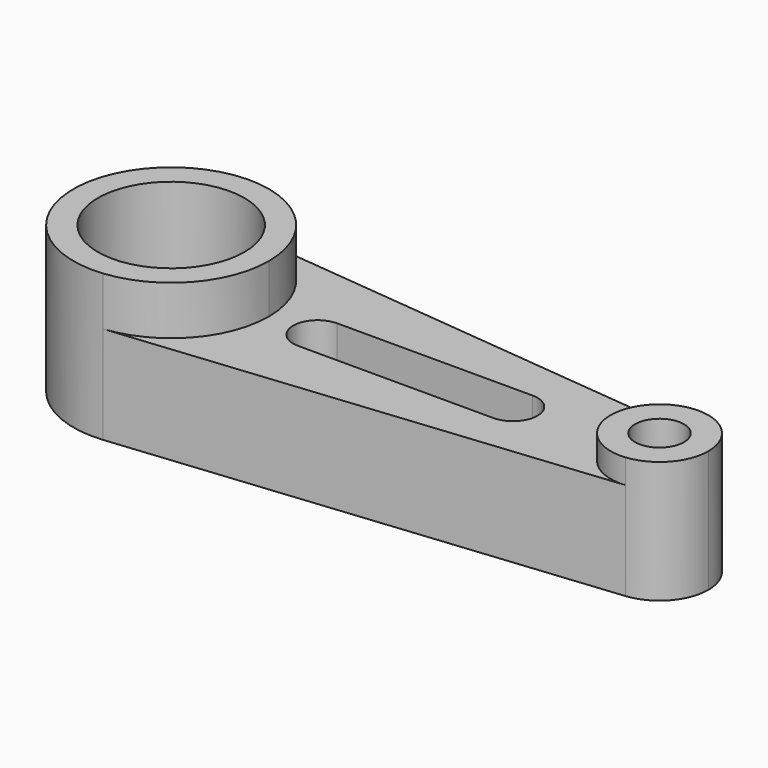
from build123d import *

# Parameters (mm, degrees)
F1_DEPTH = 25.4
F0_R     = 19.05
F2_DEPTH = 38.1
F0_R_2   = 6.35
F3_DEPTH = 31.75


with BuildPart() as f1:
    # F0 (on Top) → F1 (new body)
    with BuildSketch(Plane.XY):
        with BuildLine():
            ThreePointArc((256.328097, 0.145331), (242.358097, 12.781672), (256.328097, 25.418012))
            Line((256.328097, 25.418012), (130.598097, 38.054353))
            ThreePointArc((130.598097, 38.054353), (146.895241, 29.82051), (153.458097, 12.781672))
            ThreePointArc((153.458097, 12.781672), (146.895241, -4.257166), (130.598097, -12.491009))
            Line((130.598097, -12.491009), (256.328097, 0.145331))
        make_face()
        with BuildLine():
            ThreePointArc((166.158097, 6.431672), (159.808097, 12.781672), (166.158097, 19.131672))
            Line((166.158097, 19.131672), (216.958097, 19.131672))
            ThreePointArc((216.958097, 19.131672), (223.308097, 12.781672), (216.958097, 6.431672))
            Line((216.958097, 6.431672), (166.158097, 6.431672))
        make_face(mode=Mode.SUBTRACT)
    extrude(amount=F1_DEPTH)

    # F0 (on Top) → F2 (join)
    with BuildSketch(Plane.XY):
        with BuildLine():
            ThreePointArc((153.458097, 12.781672), (146.895241, 29.82051), (130.598097, 38.054353))
            ThreePointArc((130.598097, 38.054353), (102.658097, 12.781672), (130.598097, -12.491009))
            ThreePointArc((130.598097, -12.491009), (146.895241, -4.257166), (153.458097, 12.781672))
        make_face()
        with Locations((128.058097, 12.781672)):
            Circle(F0_R, mode=Mode.SUBTRACT)
    extrude(amount=F2_DEPTH)

    # F0 (on Top) → F3 (join)
    with BuildSketch(Plane.XY):
        with BuildLine():
            ThreePointArc((256.328097, 0.145331), (264.476669, 4.262253), (267.758097, 12.781672))
            ThreePointArc((267.758097, 12.781672), (264.476669, 21.301091), (256.328097, 25.418012))
            ThreePointArc((256.328097, 25.418012), (242.358097, 12.781672), (256.328097, 0.145331))
        make_face()
        with Locations((255.058097, 12.781672)):
            Circle(F0_R_2, mode=Mode.SUBTRACT)
    extrude(amount=F3_DEPTH)


solid = f1.part
